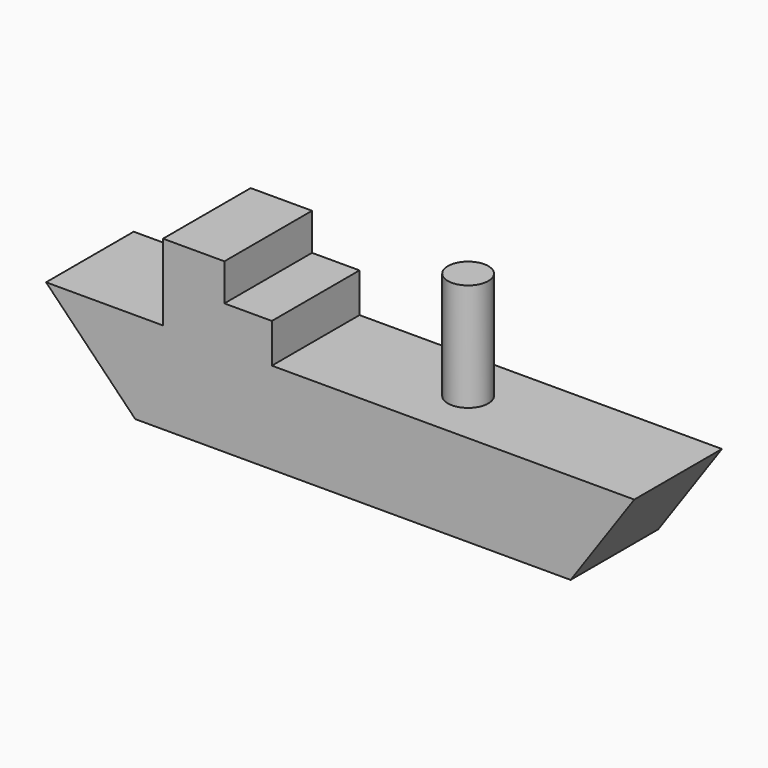
from build123d import *

# Parameters (mm, degrees)
F1_DEPTH = 25.4
F2_R     = 4.688974
F4_DEPTH = 25


with BuildPart() as f1:
    # F0 (on Front) → F1 (new body)
    with BuildSketch(Plane.XZ):
        Polygon((-46.851493, -26.17777), (-73.968977, -26.17777), (-53.295251, -47.388475), (47.656961, -47.388475), (62.423911, -26.17777), (13.290253, -26.17777), (0, -26.17777), (-21.61344, -26.17777), align=None)
        Polygon((-46.851493, -8.457433), (-46.851493, -26.17777), (-21.61344, -26.17777), (-21.61344, -17.049111), (-32.621529, -17.049111), (-32.621529, -8.457433), align=None)
    extrude(amount=F1_DEPTH)

    # F2 (on face) → F4 (join)
    with BuildSketch(Plane.XY.offset(-26.17777)):
        with Locations((13.558744, -12.484781)):
            Circle(F2_R)
    extrude(amount=F4_DEPTH)


solid = f1.part
